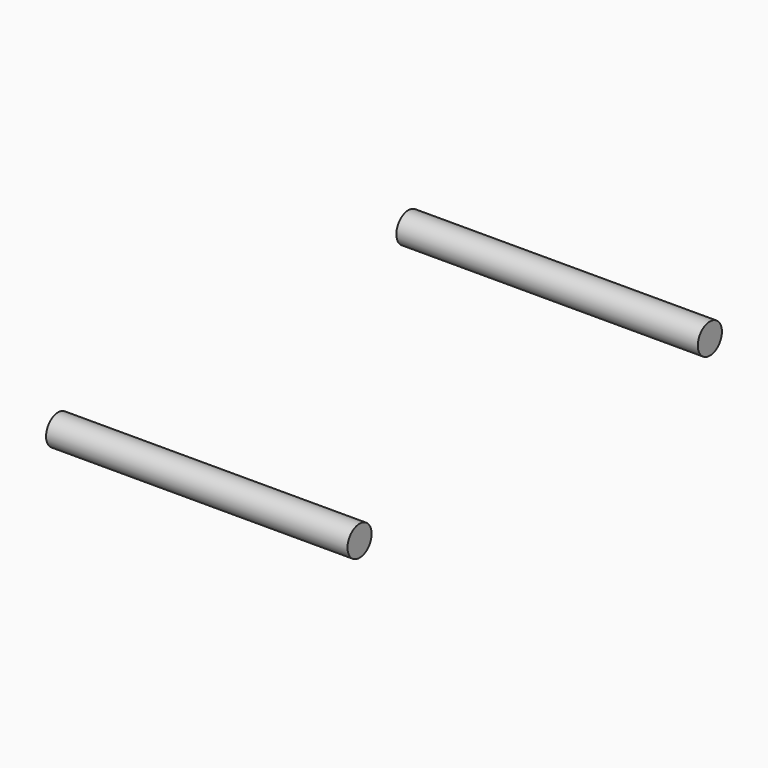
from build123d import *

# Parameters (mm, degrees)
F0_R     = 3.175
F1_DEPTH = 63.5
F2_DEPTH = 63.5


with BuildPart() as f1:
    # F0 (on Right) → F1 (new body)
    with BuildSketch(Plane.YZ):
        with Locations((-38.380038, 0)):
            Circle(F0_R)
    extrude(amount=F1_DEPTH)


with BuildPart() as f2:
    # F0 (on Right) → F2 (new body)
    with BuildSketch(Plane.YZ):
        with Locations((53.855859, 0)):
            Circle(F0_R)
    extrude(amount=F2_DEPTH)


solid = Compound([f1.part, f2.part])
